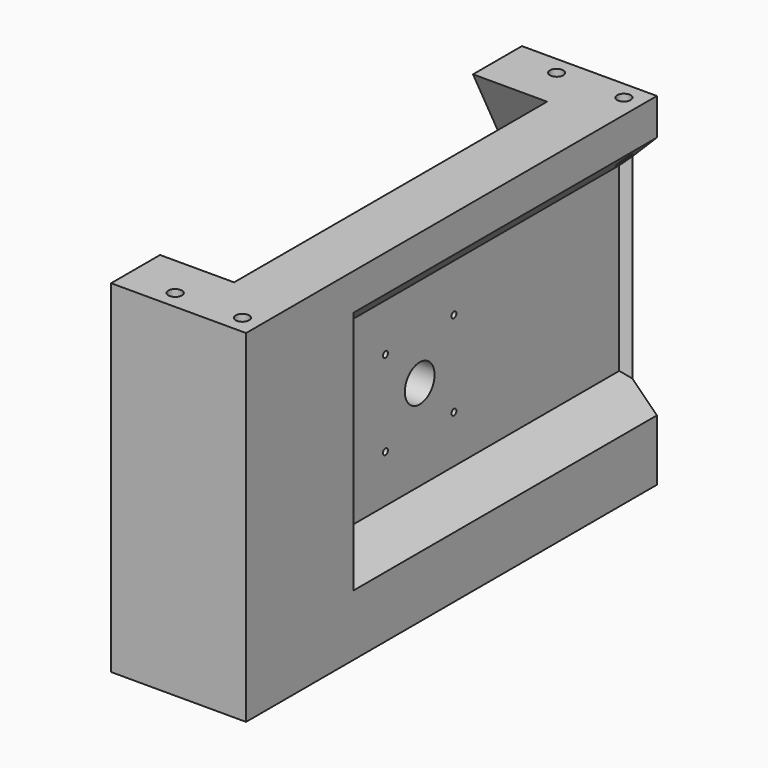
from build123d import *

# Parameters (mm, degrees)
SKETCH013_W     = 210
SKETCH013_H     = 140
PAD009_DEPTH    = 24.9
SKETCH014_R     = 6
POCKET002_DEPTH = 5
POCKET002_TAPER = 48
SKETCH015_R     = 7.6
POCKET003_DEPTH = 32
PAD013_DEPTH    = 31.2
SKETCH027_R     = 2.1
HOLE005_DEPTH   = 25
HOLE005_TIPS_R  = 2.1
SKETCH030_R     = 2.75
HOLE008_DEPTH   = 44
HOLE008_TIPS_R  = 2.75
SKETCH032_W     = 165
SKETCH032_H     = 100
POCKET008_DEPTH = 13
POCKET008_TAPER = 45
SKETCH033_R     = 1.25
HOLE009_DEPTH   = 14
HOLE009_TIPS_R  = 1.25


with BuildPart() as part:
    # Sketch013 → Pad009 (new body)
    with BuildSketch(Plane.YZ.offset(55)):
        with Locations((0, -5)):
            Rectangle(SKETCH013_W, SKETCH013_H)
    extrude(amount=-PAD009_DEPTH)

    # Sketch014 → Pocket002 (cut)
    with BuildSketch(Plane.YZ.offset(30)):
        with Locations((-70, 20)):
            Circle(SKETCH014_R)
        with Locations((70, 20)):
            Circle(SKETCH014_R)
    extrude(amount=POCKET002_DEPTH, taper=POCKET002_TAPER, mode=Mode.SUBTRACT)

    # Sketch015 → Pocket003 (cut)
    with BuildSketch(Plane.YZ.offset(30)):
        Circle(SKETCH015_R)
    extrude(amount=POCKET003_DEPTH, mode=Mode.SUBTRACT)

    # Sketch023 → Pad013 (join)
    with BuildSketch(Plane.YZ.offset(31)):
        Polygon((-105, 65), (-80, 65), (-102.5, 25), (-102.5, -50), (-45, -65), (45, -65), (102.5, -50), (102.5, 20), (80, 65), (105, 65), (105, -75), (-105, -75), align=None)
    extrude(amount=-PAD013_DEPTH)

    # Sketch027 → Hole005 (cut)
    with BuildSketch(Plane.YZ.offset(-0.2)):
        with Locations((-95, -65)):
            Circle(SKETCH027_R)
        with Locations((-75, -65)):
            Circle(SKETCH027_R)
        with Locations((95, -65)):
            Circle(SKETCH027_R)
        with Locations((75, -65)):
            Circle(SKETCH027_R)
        with Locations((-87.5, 57.5)):
            Circle(SKETCH027_R)
        with Locations((87.5, 57.5)):
            Circle(SKETCH027_R)
    extrude(amount=HOLE005_DEPTH, mode=Mode.SUBTRACT)

    # Hole005 tips → Hole005 tip 1 section 0
    with BuildSketch(Plane.YZ.offset(24.8), mode=Mode.PRIVATE) as hole005_tip_1_s0:
        with Locations((-95, -65)):
            Circle(HOLE005_TIPS_R)
    loft([hole005_tip_1_s0.sketch, Vertex(26.061807, -95, -65)], mode=Mode.SUBTRACT)

    # Hole005 tips → Hole005 tip 2 section 0
    with BuildSketch(Plane.YZ.offset(24.8), mode=Mode.PRIVATE) as hole005_tip_2_s0:
        with Locations((-75, -65)):
            Circle(HOLE005_TIPS_R)
    loft([hole005_tip_2_s0.sketch, Vertex(26.061807, -75, -65)], mode=Mode.SUBTRACT)

    # Hole005 tips → Hole005 tip 3 section 0
    with BuildSketch(Plane.YZ.offset(24.8), mode=Mode.PRIVATE) as hole005_tip_3_s0:
        with Locations((95, -65)):
            Circle(HOLE005_TIPS_R)
    loft([hole005_tip_3_s0.sketch, Vertex(26.061807, 95, -65)], mode=Mode.SUBTRACT)

    # Hole005 tips → Hole005 tip 4 section 0
    with BuildSketch(Plane.YZ.offset(24.8), mode=Mode.PRIVATE) as hole005_tip_4_s0:
        with Locations((75, -65)):
            Circle(HOLE005_TIPS_R)
    loft([hole005_tip_4_s0.sketch, Vertex(26.061807, 75, -65)], mode=Mode.SUBTRACT)

    # Hole005 tips → Hole005 tip 5 section 0
    with BuildSketch(Plane.YZ.offset(24.8), mode=Mode.PRIVATE) as hole005_tip_5_s0:
        with Locations((-87.5, 57.5)):
            Circle(HOLE005_TIPS_R)
    loft([hole005_tip_5_s0.sketch, Vertex(26.061807, -87.5, 57.5)], mode=Mode.SUBTRACT)

    # Hole005 tips → Hole005 tip 6 section 0
    with BuildSketch(Plane.YZ.offset(24.8), mode=Mode.PRIVATE) as hole005_tip_6_s0:
        with Locations((87.5, 57.5)):
            Circle(HOLE005_TIPS_R)
    loft([hole005_tip_6_s0.sketch, Vertex(26.061807, 87.5, 57.5)], mode=Mode.SUBTRACT)

    # Sketch030 → Hole008 (cut)
    with BuildSketch(Plane.XY.offset(65)):
        with Locations((20, -97.5)):
            Circle(SKETCH030_R)
        with Locations((47.5, -97.5)):
            Circle(SKETCH030_R)
        with Locations((20, 97.5)):
            Circle(SKETCH030_R)
        with Locations((47.5, 97.5)):
            Circle(SKETCH030_R)
    extrude(amount=-HOLE008_DEPTH, mode=Mode.SUBTRACT)

    # Hole008 tips → Hole008 tip 1 section 0
    with BuildSketch(Plane.XY.offset(21), mode=Mode.PRIVATE) as hole008_tip_1_s0:
        with Locations((20, -97.5)):
            Circle(HOLE008_TIPS_R)
    loft([hole008_tip_1_s0.sketch, Vertex(20, -97.5, 19.347633)], mode=Mode.SUBTRACT)

    # Hole008 tips → Hole008 tip 2 section 0
    with BuildSketch(Plane.XY.offset(21), mode=Mode.PRIVATE) as hole008_tip_2_s0:
        with Locations((47.5, -97.5)):
            Circle(HOLE008_TIPS_R)
    loft([hole008_tip_2_s0.sketch, Vertex(47.5, -97.5, 19.347633)], mode=Mode.SUBTRACT)

    # Hole008 tips → Hole008 tip 3 section 0
    with BuildSketch(Plane.XY.offset(21), mode=Mode.PRIVATE) as hole008_tip_3_s0:
        with Locations((20, 97.5)):
            Circle(HOLE008_TIPS_R)
    loft([hole008_tip_3_s0.sketch, Vertex(20, 97.5, 19.347633)], mode=Mode.SUBTRACT)

    # Hole008 tips → Hole008 tip 4 section 0
    with BuildSketch(Plane.XY.offset(21), mode=Mode.PRIVATE) as hole008_tip_4_s0:
        with Locations((47.5, 97.5)):
            Circle(HOLE008_TIPS_R)
    loft([hole008_tip_4_s0.sketch, Vertex(47.5, 97.5, 19.347633)], mode=Mode.SUBTRACT)

    # Sketch032 → Pocket008 (cut)
    with BuildSketch(Plane.YZ.offset(55)):
        with Locations((32.5, 0)):
            Rectangle(SKETCH032_W, SKETCH032_H)
    extrude(amount=-POCKET008_DEPTH, taper=POCKET008_TAPER, mode=Mode.SUBTRACT)

    # Sketch033 → Hole009 (cut)
    with BuildSketch(Plane.YZ.offset(45)):
        with Locations((-17.5, 17.5)):
            Circle(SKETCH033_R)
        with Locations((17.5, 17.5)):
            Circle(SKETCH033_R)
        with Locations((-17.5, -17.5)):
            Circle(SKETCH033_R)
        with Locations((17.5, -17.5)):
            Circle(SKETCH033_R)
    extrude(amount=-HOLE009_DEPTH, mode=Mode.SUBTRACT)

    # Hole009 tips → Hole009 tip 1 section 0
    with BuildSketch(Plane.YZ.offset(31), mode=Mode.PRIVATE) as hole009_tip_1_s0:
        with Locations((-17.5, 17.5)):
            Circle(HOLE009_TIPS_R)
    loft([hole009_tip_1_s0.sketch, Vertex(30.248924, -17.5, 17.5)], mode=Mode.SUBTRACT)

    # Hole009 tips → Hole009 tip 2 section 0
    with BuildSketch(Plane.YZ.offset(31), mode=Mode.PRIVATE) as hole009_tip_2_s0:
        with Locations((17.5, 17.5)):
            Circle(HOLE009_TIPS_R)
    loft([hole009_tip_2_s0.sketch, Vertex(30.248924, 17.5, 17.5)], mode=Mode.SUBTRACT)

    # Hole009 tips → Hole009 tip 3 section 0
    with BuildSketch(Plane.YZ.offset(31), mode=Mode.PRIVATE) as hole009_tip_3_s0:
        with Locations((-17.5, -17.5)):
            Circle(HOLE009_TIPS_R)
    loft([hole009_tip_3_s0.sketch, Vertex(30.248924, -17.5, -17.5)], mode=Mode.SUBTRACT)

    # Hole009 tips → Hole009 tip 4 section 0
    with BuildSketch(Plane.YZ.offset(31), mode=Mode.PRIVATE) as hole009_tip_4_s0:
        with Locations((17.5, -17.5)):
            Circle(HOLE009_TIPS_R)
    loft([hole009_tip_4_s0.sketch, Vertex(30.248924, 17.5, -17.5)], mode=Mode.SUBTRACT)


solid = part.part
